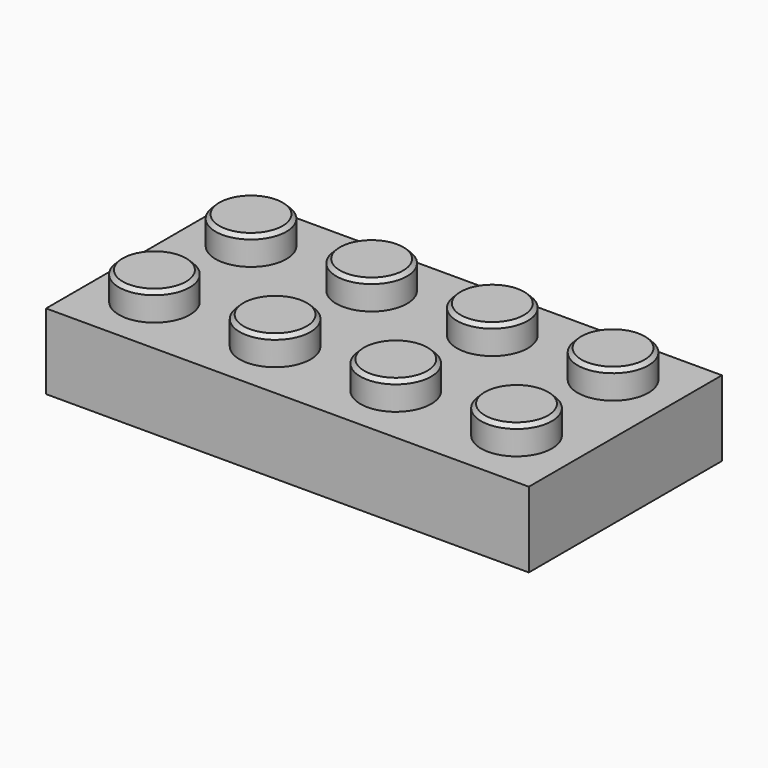
from build123d import *

# Parameters (mm, degrees)
F0_W     = 32.004
F0_H     = 16.002
F1_DEPTH = 5.0038
F2_R     = 2.3495
F3_DEPTH = 1.8542
F4_W     = 29.0068
F4_H     = 13.0048
F4_R     = 3.2512
F4_R_2   = 2.4003
F5_DEPTH = 3.5052
F6_SIZE  = 0.254


with BuildPart() as f1:
    # F0 (on Top) → F1 (new body)
    with BuildSketch(Plane.XY):
        Rectangle(F0_W, F0_H)
    extrude(amount=F1_DEPTH)

    # F2 (on face) → F3 (join)
    with BuildSketch(Plane.XY.offset(5.0038)):
        with Locations((-12.0904, 4.0894)):
            Circle(F2_R)
        with Locations((-12.0904, -3.9116)):
            Circle(F2_R)
        with Locations((-4.0894, 4.0894)):
            Circle(F2_R)
        with Locations((-4.0894, -3.9116)):
            Circle(F2_R)
        with Locations((3.9116, 4.0894)):
            Circle(F2_R)
        with Locations((3.9116, -3.9116)):
            Circle(F2_R)
        with Locations((11.9126, 4.0894)):
            Circle(F2_R)
        with Locations((11.9126, -3.9116)):
            Circle(F2_R)
    extrude(amount=F3_DEPTH)

    # F4 (on face) → F5 (cut)
    with BuildSketch(Plane(origin=(0, 0, 0), x_dir=(1, 0, 0), z_dir=(0, 0, -1))):
        Rectangle(F4_W, F4_H)
        with Locations((-8.001, 0)):
            Circle(F4_R, mode=Mode.SUBTRACT)
        Circle(F4_R, mode=Mode.SUBTRACT)
        with Locations((8.001, 0)):
            Circle(F4_R, mode=Mode.SUBTRACT)
        with Locations((-8.001, 0)):
            Circle(F4_R_2)
        with Locations((8.001, 0)):
            Circle(F4_R_2)
        Circle(F4_R_2)
    extrude(amount=-F5_DEPTH, mode=Mode.SUBTRACT)

    # F6
    f6_edges = [f1.edges().sort_by_distance(p)[0] for p in [
        (-14.4399, 4.0894, 6.858),
        (-14.4399, -3.9116, 6.858),
        (-6.4389, -3.9116, 6.858),
        (-6.4389, 4.0894, 6.858),
        (1.5621, 4.0894, 6.858),
        (1.5621, -3.9116, 6.858),
        (9.5631, -3.9116, 6.858),
        (9.5631, 4.0894, 6.858),
    ]]
    chamfer(f6_edges, length=F6_SIZE)


solid = f1.part
